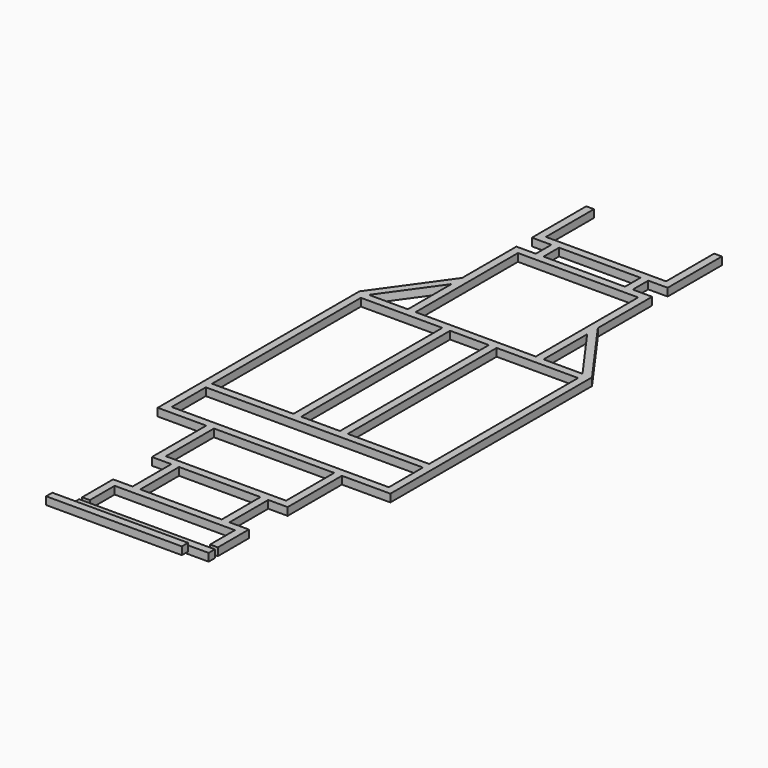
from build123d import *

# Parameters (mm, degrees)
F0_W     = 420
F0_H     = 960
F0_W_2   = 620
F0_H_2   = 310
F0_W_3   = 1120
F0_H_3   = 220
F0_W_4   = 200
F0_W_5   = 40
F0_H_4   = 100
F0_H_5   = 40
F1_DEPTH = 20
F3_DEPTH = 20
F4_DEPTH = 350


with BuildPart() as f1:
    # F0 (on Top) → F1 (new body, symmetric)
    with BuildSketch(Plane.XY):
        Polygon((0, 439.611647), (-100, 439.611647), (-310, 439.611647), (-310, 789.611647), (-350, 789.611647), (-600, 439.611647), (-600, -560.388353), (-600, -860.388353), (-350, -860.388353), (-350, -1210.388353), (-310, -1210.388353), (-250, -1210.388353), (-250, -1460.388353), (-310, -1460.388353), (-350, -1460.388353), (-350, -1660.388353), (-310, -1660.388353), (-310, -1500.388353), (310, -1500.388353), (310, -1660.388353), (350, -1660.388353), (350, -1460.388353), (310, -1460.388353), (250, -1460.388353), (250, -1210.388353), (310, -1210.388353), (350, -1210.388353), (350, -860.388353), (600, -860.388353), (600, -560.388353), (600, 439.611647), (350, 789.611647), (310, 789.611647), (310, 439.611647), (100, 439.611647), align=None)
        with Locations((-350, -80.388353)):
            Rectangle(F0_W, F0_H, mode=Mode.SUBTRACT)
        Polygon((210, -1460.388353), (0, -1460.388353), (-210, -1460.388353), (-210, -1210.388353), (0, -1210.388353), (210, -1210.388353), align=None, mode=Mode.SUBTRACT)
        with Locations((0, -1015.388353)):
            Rectangle(F0_W_2, F0_H_2, mode=Mode.SUBTRACT)
        with Locations((0, -710.388353)):
            Rectangle(F0_W_3, F0_H_3, mode=Mode.SUBTRACT)
        with Locations((0, -80.388353)):
            Rectangle(F0_W_4, F0_H, mode=Mode.SUBTRACT)
        with Locations((350, -80.388353)):
            Rectangle(F0_W, F0_H, mode=Mode.SUBTRACT)
        Polygon((-350, 720.793045), (-350, 439.611647), (-550.843856, 439.611647), align=None, mode=Mode.SUBTRACT)
        Polygon((550.843856, 439.611647), (350, 439.611647), (350, 720.793045), align=None, mode=Mode.SUBTRACT)
        Polygon((-350, 789.611647), (-310, 789.611647), (-310, 1099.611647), (0, 1099.611647), (310, 1099.611647), (310, 789.611647), (350, 789.611647), (350, 1139.611647), (250, 1139.611647), (210, 1139.611647), (0, 1139.611647), (-210, 1139.611647), (-250, 1139.611647), (-350, 1139.611647), align=None)
        with Locations((-230, 1189.611647)):
            Rectangle(F0_W_5, F0_H_4)
        Polygon((-310, 1239.611647), (-250, 1239.611647), (-210, 1239.611647), (0, 1239.611647), (210, 1239.611647), (250, 1239.611647), (310, 1239.611647), (310, 1279.611647), (0, 1279.611647), (-310, 1279.611647), align=None)
        with Locations((230, 1189.611647)):
            Rectangle(F0_W_5, F0_H_4)
        with Locations((-330, 1259.611647)):
            Rectangle(F0_W_5, F0_H_5)
        with Locations((-330, 1434.611647)):
            Rectangle(F0_W_5, F0_H_2)
        with Locations((330, 1259.611647)):
            Rectangle(F0_W_5, F0_H_5)
        with Locations((330, 1434.611647)):
            Rectangle(F0_W_5, F0_H_2)
    extrude(amount=F1_DEPTH, both=True)


with BuildPart() as f3:
    # F2 (on Right) → F3 (new body, symmetric)
    with BuildSketch(Plane.YZ):
        Polygon((-1719.511804, 18.999981), (-1708.793836, 18.999981), (-1852.716885, 102.093992), (-1852.716885, 78.999981), (-1892.716885, 78.999981), (-1719.511804, -21.000019), align=None)
    extrude(amount=F3_DEPTH, both=True)

    # F2 (on Right) → F4 (join, symmetric)
    with BuildSketch(Plane.YZ):
        Polygon((-1852.716885, 78.999981), (-1852.716885, 102.093992), (-1852.716885, 118.999981), (-1892.716885, 118.999981), (-1892.716885, 78.999981), align=None)
        Polygon((-1679.511804, -21.000019), (-1679.511804, 18.999981), (-1708.793836, 18.999981), (-1719.511804, 18.999981), (-1719.511804, -21.000019), align=None)
    extrude(amount=F4_DEPTH, both=True)


solid = Compound([f1.part, f3.part])
